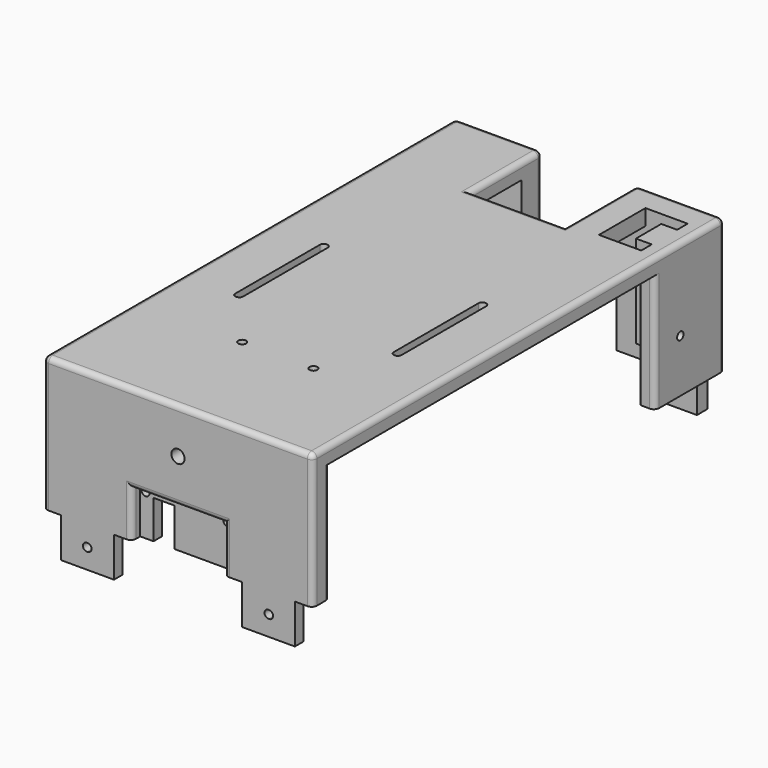
from build123d import *

# Parameters (mm, degrees)
PAD_DEPTH       = 6
SKETCH001_W     = 11
SKETCH001_H     = 11
PAD001_DEPTH    = 5
SKETCH003_R     = 1.5
POCKET_DEPTH    = 11.001
SKETCH004_R     = 1.5
POCKET001_DEPTH = 6
POCKET002_DEPTH = 6
SKETCH006_W     = 102
SKETCH006_H     = 8
PAD002_DEPTH    = 45
SKETCH007_W     = 35
SKETCH007_H     = 17.5
POCKET003_DEPTH = 4
SKETCH008_R     = 1.5
SKETCH008_W     = 8
SKETCH008_H     = 14.5
POCKET004_DEPTH = 5
SKETCH009_W     = 20
SKETCH009_H     = 4
PAD003_DEPTH    = 15
SKETCH010_R     = 1.5
POCKET005_DEPTH = 4
PAD004_DEPTH    = 45
SKETCH012_W     = 6
SKETCH012_H     = 6
PAD005_DEPTH    = 22
SKETCH013_W     = 20
SKETCH013_H     = 5
PAD006_DEPTH    = 15
SKETCH014_R     = 1.5
POCKET006_DEPTH = 195.001
SKETCH015_W     = 12
SKETCH015_H     = 35
PAD007_DEPTH    = 6
SKETCH016_R     = 1.5
POCKET007_DEPTH = 12.001
SKETCH018_R     = 2.5
POCKET008_DEPTH = 8
FILLET_R        = 2
FILLET001_R     = 2
FILLET002_R     = 2
FILLET003_R     = 2
FILLET004_R     = 2
FILLET005_R     = 2
FILLET006_R     = 2
FILLET007_R     = 1
FILLET008_R     = 2
FILLET009_R     = 2
FILLET010_R     = 2
FILLET011_R     = 1.5
FILLET012_R     = 2
FILLET013_R     = 2
POCKET009_DEPTH = 6


with BuildPart() as part:
    # Sketch → Pad (new body)
    with BuildSketch(Plane.XY):
        Polygon((0, 0), (102, 0), (102, 195), (69, 195), (69, 161), (33, 161), (33, 195), (0, 195), align=None)
    extrude(amount=PAD_DEPTH)

    # Sketch001 (on Face9 of Pad) → Pad001 (join)
    with BuildSketch(Plane(origin=(0, 0, 0), x_dir=(1, 0, 0), z_dir=(0, 0, -1))):
        with Locations((40.5, -43.5)):
            Rectangle(SKETCH001_W, SKETCH001_H)
        with Locations((67.5, -43.5)):
            Rectangle(SKETCH001_W, SKETCH001_H)
    extrude(amount=PAD001_DEPTH)

    # Sketch003 (on Face19 of Pad001) → Pocket (cut, through all)
    with BuildSketch(Plane(origin=(0, 0, -5), x_dir=(1, 0, 0), z_dir=(0, 0, -1))):
        with Locations((40.5, -43.5)):
            Circle(SKETCH003_R)
        with Locations((67.5, -43.5)):
            Circle(SKETCH003_R)
    extrude(amount=-POCKET_DEPTH, mode=Mode.SUBTRACT)

    # Sketch004 (on Face5 of Pocket) → Pocket001 (cut)
    with BuildSketch(Plane.XY.offset(6)):
        with Locations((21, 89.5)):
            Circle(SKETCH004_R)
        with Locations((81, 89.5)):
            Circle(SKETCH004_R)
        with Locations((81, 66.5)):
            Circle(SKETCH004_R)
        with Locations((21, 66.5)):
            Circle(SKETCH004_R)
    extrude(amount=-POCKET001_DEPTH, mode=Mode.SUBTRACT)

    # Sketch005 (on Face5 of Pocket001) → Pocket002 (cut)
    with BuildSketch(Plane.XY.offset(6)):
        Polygon((102, 185), (80, 185), (80, 163), (102, 163), (102, 168), (102, 180), align=None)
    extrude(amount=-POCKET002_DEPTH, mode=Mode.SUBTRACT)

    # Sketch006 (on Face4 of Pocket002) → Pad002 (join)
    with BuildSketch(Plane(origin=(0, 0, 0), x_dir=(1, 0, 0), z_dir=(0, 0, -1))):
        with Locations((51, -4)):
            Rectangle(SKETCH006_W, SKETCH006_H)
    extrude(amount=PAD002_DEPTH)

    # Sketch007 (on Face4 of Pad002) → Pocket003 (cut)
    with BuildSketch(Plane.XZ):
        with Locations((51, -36.25)):
            Rectangle(SKETCH007_W, SKETCH007_H)
    extrude(amount=-POCKET003_DEPTH, mode=Mode.SUBTRACT)

    # Sketch008 (on Face37 of Pocket003) → Pocket004 (cut)
    with BuildSketch(Plane.XZ.offset(-4)):
        with Locations((35.5, -29.5)):
            Circle(SKETCH008_R)
        with Locations((66.5, -29.5)):
            Circle(SKETCH008_R)
        with Locations((42.5, -37.75)):
            Rectangle(SKETCH008_W, SKETCH008_H)
    extrude(amount=-POCKET004_DEPTH, mode=Mode.SUBTRACT)

    # Sketch009 (on Face11 of Pocket004) → Pad003 (join)
    with BuildSketch(Plane(origin=(0, 0, -45), x_dir=(1, 0, 0), z_dir=(0, 0, -1))):
        with Locations((16.75, -2)):
            Rectangle(SKETCH009_W, SKETCH009_H)
        with Locations((85.25, -2)):
            Rectangle(SKETCH009_W, SKETCH009_H)
    extrude(amount=PAD003_DEPTH)

    # Sketch010 (on Face12 of Pad003) → Pocket005 (cut)
    with BuildSketch(Plane.XZ):
        with Locations((16.75, -52.5)):
            Circle(SKETCH010_R)
        with Locations((85.25, -52.5)):
            Circle(SKETCH010_R)
    extrude(amount=-POCKET005_DEPTH, mode=Mode.SUBTRACT)

    # Sketch011 (on Face7 of Pocket005) → Pad004 (join)
    with BuildSketch(Plane(origin=(0, 0, 0), x_dir=(1, 0, 0), z_dir=(0, 0, -1))):
        Polygon((96, -162), (102, -162), (102, -195), (69, -195), (69, -185), (96, -185), align=None)
        Polygon((0, -162), (6, -162), (6, -185), (33, -185), (33, -195), (0, -195), align=None)
    extrude(amount=PAD004_DEPTH)

    # Sketch012 (on Face25 of Pad004) → Pad005 (join)
    with BuildSketch(Plane.XZ.offset(-185)):
        with Locations((99, 3)):
            Rectangle(SKETCH012_W, SKETCH012_H)
    extrude(amount=PAD005_DEPTH)

    # Sketch013 (on Face37 of Pad005) → Pad006 (join)
    with BuildSketch(Plane(origin=(0, 0, -45), x_dir=(1, 0, 0), z_dir=(0, 0, -1))):
        with Locations((16.5, -192.5)):
            Rectangle(SKETCH013_W, SKETCH013_H)
        with Locations((85.5, -192.5)):
            Rectangle(SKETCH013_W, SKETCH013_H)
    extrude(amount=PAD006_DEPTH)

    # Sketch014 (on Face79 of Pad006) → Pocket006 (cut, through all)
    with BuildSketch(Plane(origin=(0, 195, 0), x_dir=(-1, 0, 0), z_dir=(0, 1, 0))):
        with Locations((-85.5, -52.5)):
            Circle(SKETCH014_R)
        with Locations((-16.5, -52.5)):
            Circle(SKETCH014_R)
    extrude(amount=-POCKET006_DEPTH, mode=Mode.SUBTRACT)

    # Sketch015 (on Face39 of Pocket006) → Pad007 (join)
    with BuildSketch(Plane(origin=(96, 0, 0), x_dir=(0, -1, 0), z_dir=(-1, 0, 0))):
        with Locations((-174, -11.5)):
            Rectangle(SKETCH015_W, SKETCH015_H)
    extrude(amount=PAD007_DEPTH)

    # Sketch016 (on Face92 of Pad007) → Pocket007 (cut, through all)
    with BuildSketch(Plane(origin=(90, 0, 0), x_dir=(0, -1, 0), z_dir=(-1, 0, 0))):
        with Locations((-174, -25)):
            Circle(SKETCH016_R)
    extrude(amount=-POCKET007_DEPTH, mode=Mode.SUBTRACT)

    # Sketch018 → Pocket008 (cut)
    with BuildSketch(Plane.XZ):
        with Locations((51, -11)):
            Circle(SKETCH018_R)
    extrude(amount=-POCKET008_DEPTH, mode=Mode.SUBTRACT)

    # Fillet
    fillet_edges = [part.edges().sort_by_distance(p)[0] for p in [
        (51, 0, 6),
    ]]
    fillet(fillet_edges, radius=FILLET_R)

    # Fillet001
    fillet001_edges = [part.edges().sort_by_distance(p)[0] for p in [
        (0, 98.5, 6),
        (102, 82.5, 6),
    ]]
    fillet(fillet001_edges, radius=FILLET001_R)

    # Fillet002
    fillet002_edges = [part.edges().sort_by_distance(p)[0] for p in [
        (102, 8, -22.5),
    ]]
    fillet(fillet002_edges, radius=FILLET002_R)

    # Fillet003
    fillet003_edges = [part.edges().sort_by_distance(p)[0] for p in [
        (0, 8, -22.5),
    ]]
    fillet(fillet003_edges, radius=FILLET003_R)

    # Fillet004
    fillet004_edges = [part.edges().sort_by_distance(p)[0] for p in [
        (33.5, 0, -36.25),
        (68.5, 0, -36.25),
    ]]
    fillet(fillet004_edges, radius=FILLET004_R)

    # Fillet005
    fillet005_edges = [part.edges().sort_by_distance(p)[0] for p in [
        (51, 0, -27.5),
    ]]
    fillet(fillet005_edges, radius=FILLET005_R)

    # Fillet006
    fillet006_edges = [part.edges().sort_by_distance(p)[0] for p in [
        (102, 162, -22.5),
    ]]
    fillet(fillet006_edges, radius=FILLET006_R)

    # Fillet007
    fillet007_edges = [part.edges().sort_by_distance(p)[0] for p in [
        (96, 162, -22.5),
    ]]
    fillet(fillet007_edges, radius=FILLET007_R)

    # Fillet008
    fillet008_edges = [part.edges().sort_by_distance(p)[0] for p in [
        (102, 195, -22.5),
        (69, 195, -22.5),
    ]]
    fillet(fillet008_edges, radius=FILLET008_R)

    # Fillet009
    fillet009_edges = [part.edges().sort_by_distance(p)[0] for p in [
        (51, 161, 6),
    ]]
    fillet(fillet009_edges, radius=FILLET009_R)

    # Fillet010
    fillet010_edges = [part.edges().sort_by_distance(p)[0] for p in [
        (33, 178, 6),
    ]]
    fillet(fillet010_edges, radius=FILLET010_R)

    # Fillet011
    fillet011_edges = [part.edges().sort_by_distance(p)[0] for p in [
        (69, 177, 6),
    ]]
    fillet(fillet011_edges, radius=FILLET011_R)

    # Fillet012
    fillet012_edges = [part.edges().sort_by_distance(p)[0] for p in [
        (33, 195, -22.5),
        (0, 195, -22.5),
    ]]
    fillet(fillet012_edges, radius=FILLET012_R)

    # Fillet013
    fillet013_edges = [part.edges().sort_by_distance(p)[0] for p in [
        (0, 162, -22.5),
        (6, 162, -22.5),
    ]]
    fillet(fillet013_edges, radius=FILLET013_R)

    # Sketch019 (on Face52 of Fillet013) → Pocket009 (cut)
    with BuildSketch(Plane.XY.offset(6)):
        with BuildLine():
            ThreePointArc((22.5, 106.5), (21, 108), (19.5, 106.5))
            Line((19.5, 106.5), (19.5, 66.5))
            ThreePointArc((19.5, 66.5), (21, 65), (22.5, 66.5))
            Line((22.5, 66.5), (22.5, 106.5))
        make_face()
        with BuildLine():
            ThreePointArc((82.5, 106.5), (81, 108), (79.5, 106.5))
            Line((79.5, 106.5), (79.5, 66.5))
            ThreePointArc((79.5, 66.5), (81, 65), (82.5, 66.5))
            Line((82.5, 66.5), (82.5, 106.5))
        make_face()
    extrude(amount=-POCKET009_DEPTH, mode=Mode.SUBTRACT)


solid = part.part
